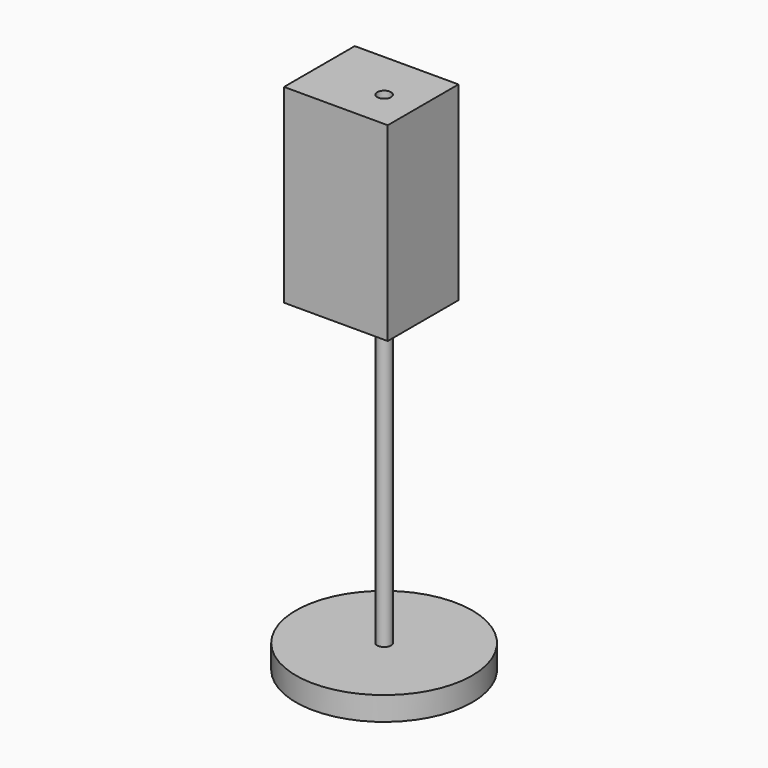
from build123d import *

# Parameters (mm, degrees)
F0_R     = 15.290078
F1_DEPTH = 4.098665
F2_R     = 1.195048
F3_DEPTH = 50.759038
F4_W     = 17.988403
F4_H     = 15.334837
F4_R     = 1.195048
F5_DEPTH = 32.950506


with BuildPart() as f1:
    # F0 (on Top) → F1 (new body)
    with BuildSketch(Plane.XY):
        with Locations((58.028266, 62.118329)):
            Circle(F0_R)
    extrude(amount=F1_DEPTH)

    # F2 (on face) → F3 (join)
    with BuildSketch(Plane.XY.offset(4.098665)):
        with Locations((58.028266, 62.118329)):
            Circle(F2_R)
    extrude(amount=F3_DEPTH)


with BuildPart() as f5:
    # F4 (on face) → F5 (new body)
    with BuildSketch(Plane.XY.offset(54.857703)):
        with Locations((55.017171, 63.09599)):
            Rectangle(F4_W, F4_H)
        with Locations((58.028266, 62.118329)):
            Circle(F4_R, mode=Mode.SUBTRACT)
    extrude(amount=F5_DEPTH)


solid = Compound([f1.part, f5.part])
